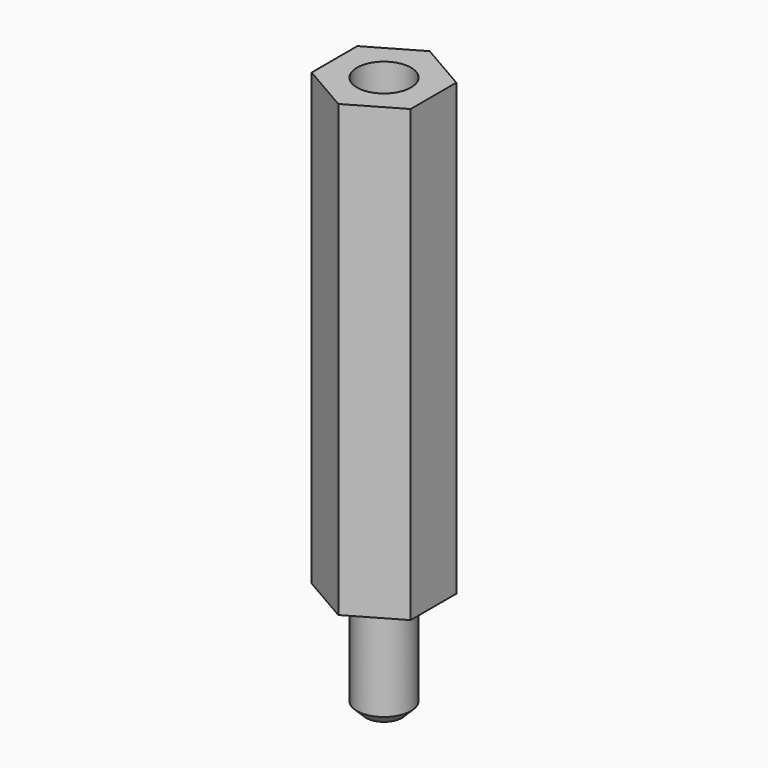
from build123d import *

# Parameters (mm, degrees)
PAD_DEPTH       = 25
SKETCH001_R     = 1.5
PAD001_DEPTH    = 6
SKETCH002_R     = 1.5
POCKET_DEPTH    = 8.5
CHAMFER_SIZE    = 1.5
CHAMFER001_SIZE = 0.5


with BuildPart() as part:
    # Sketch → Pad (new body)
    with BuildSketch(Plane.XY):
        Polygon((-2.75, -1.587713), (-2.75, 1.587713), (0, 3.175426), (2.75, 1.587713), (2.75, -1.587713), (0, -3.175426), align=None)
    extrude(amount=PAD_DEPTH)

    # Sketch001 (on Face7 of Pad) → Pad001 (new body)
    with BuildSketch(Plane(origin=(0, 0, 0), x_dir=(1, 0, 0), z_dir=(0, 0, -1))):
        Circle(SKETCH001_R)
    extrude(amount=PAD001_DEPTH)

    # Sketch002 (on Face5 of Pad001) → Pocket (cut)
    with BuildSketch(Plane.XY.offset(25)):
        Circle(SKETCH002_R)
    extrude(amount=-POCKET_DEPTH, mode=Mode.SUBTRACT)

    # Chamfer
    chamfer_edges = [part.edges().sort_by_distance(p)[0] for p in [
        (-1.5, 0, 16.5),
    ]]
    chamfer(chamfer_edges, length=CHAMFER_SIZE)

    # Chamfer001
    chamfer001_edges = [part.edges().sort_by_distance(p)[0] for p in [
        (-1.5, 0, -6),
    ]]
    chamfer(chamfer001_edges, length=CHAMFER001_SIZE)


solid = part.part
